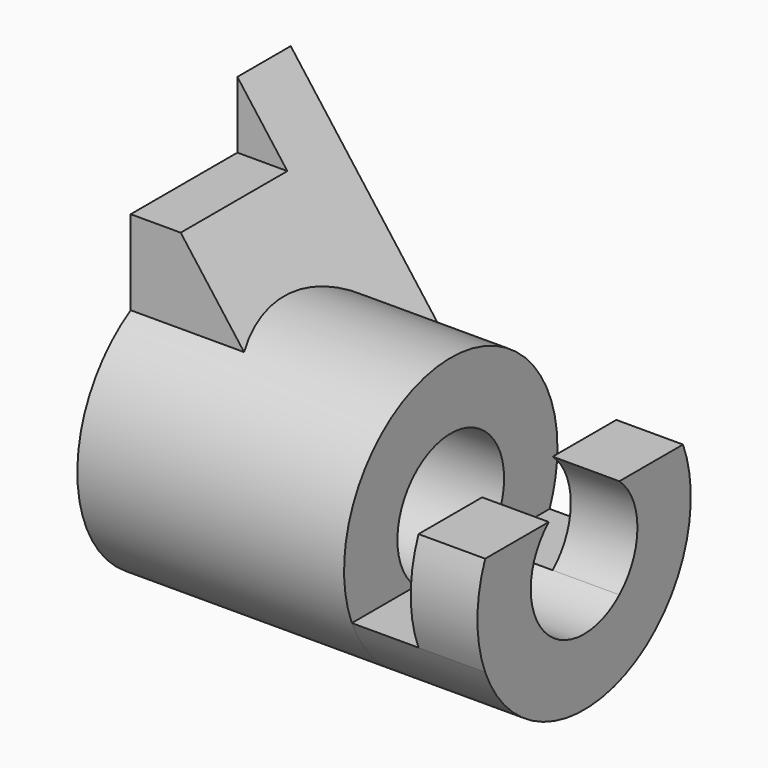
from build123d import *

# Parameters (mm, degrees)
F0_R      = 25.4
F0_R_2    = 12.7
F1_DEPTH  = 50.8
F3_DEPTH  = 12.7
F5_DEPTH  = 12.7
F8_DEPTH  = 25.4
F10_DEPTH = 12.7


with BuildPart() as f1:
    # F0 (on Right) → F1 (new body)
    with BuildSketch(Plane.YZ):
        Circle(F0_R)
        Circle(F0_R_2, mode=Mode.SUBTRACT)
    extrude(amount=F1_DEPTH)

    # F2 (on face) → F3 (join)
    with BuildSketch(Plane.YZ.offset(50.8)):
        with BuildLine():
            Line((-8.40026, -9.525), (-23.54643, -9.525))
            ThreePointArc((-23.54643, -9.525), (0, -25.4), (23.54643, -9.525))
            Line((23.54643, -9.525), (8.40026, -9.525))
            ThreePointArc((8.40026, -9.525), (0, -12.7), (-8.40026, -9.525))
        make_face()
    extrude(amount=F3_DEPTH)

    # F4 (on face) → F5 (join)
    with BuildSketch(Plane.YZ.offset(63.5)):
        with BuildLine():
            ThreePointArc((-23.54643, -9.525), (0, -25.4), (23.54643, -9.525))
            ThreePointArc((23.54643, -9.525), (25.4, 0), (23.54643, 9.525))
            Line((23.54643, 9.525), (8.40026, 9.525))
            ThreePointArc((8.40026, 9.525), (12.7, 0), (8.40026, -9.525))
            ThreePointArc((8.40026, -9.525), (0, -12.7), (-8.40026, -9.525))
            ThreePointArc((-8.40026, -9.525), (-12.7, 0), (-8.40026, 9.525))
            Line((-8.40026, 9.525), (-23.54643, 9.525))
            ThreePointArc((-23.54643, 9.525), (-25.4, 0), (-23.54643, -9.525))
        make_face()
        with BuildLine():
            ThreePointArc((-23.54643, -9.525), (0, -25.4), (23.54643, -9.525))
            ThreePointArc((23.54643, -9.525), (25.4, 0), (23.54643, 9.525))
            Line((23.54643, 9.525), (8.40026, 9.525))
            ThreePointArc((8.40026, 9.525), (12.7, 0), (8.40026, -9.525))
            ThreePointArc((8.40026, -9.525), (0, -12.7), (-8.40026, -9.525))
            ThreePointArc((-8.40026, -9.525), (-12.7, 0), (-8.40026, 9.525))
            Line((-8.40026, 9.525), (-23.54643, 9.525))
            ThreePointArc((-23.54643, 9.525), (-25.4, 0), (-23.54643, -9.525))
        make_face()
        with BuildLine():
            ThreePointArc((-23.54643, -9.525), (0, -25.4), (23.54643, -9.525))
            ThreePointArc((23.54643, -9.525), (25.4, 0), (23.54643, 9.525))
            Line((23.54643, 9.525), (8.40026, 9.525))
            ThreePointArc((8.40026, 9.525), (12.7, 0), (8.40026, -9.525))
            ThreePointArc((8.40026, -9.525), (0, -12.7), (-8.40026, -9.525))
            ThreePointArc((-8.40026, -9.525), (-12.7, 0), (-8.40026, 9.525))
            Line((-8.40026, 9.525), (-23.54643, 9.525))
            ThreePointArc((-23.54643, 9.525), (-25.4, 0), (-23.54643, -9.525))
        make_face()
    extrude(amount=F5_DEPTH)

    # F7 (on offset) → F8 (join)
    with BuildSketch(Plane.XZ.offset(12.7)):
        Polygon((19.05, 25.4), (0, 25.4), (0, 19.05), (23.8125, 19.05), align=None)
        Polygon((0, 38.1), (0, 25.4), (19.05, 25.4), (9.525, 38.1), align=None)
    extrude(amount=-F8_DEPTH)

    # F9 (on face) → F10 (join)
    with BuildSketch(Plane(origin=(0, 12.7, 0), x_dir=(-1, 0, 0), z_dir=(0, 1, 0))):
        Polygon((0, 25.4), (0, 38.1), (-9.525, 38.1), (-38.1, 0), (0, 0), align=None)
        Polygon((-9.525, 38.1), (0, 38.1), (0, 50.8), align=None)
    extrude(amount=F10_DEPTH)


solid = f1.part
